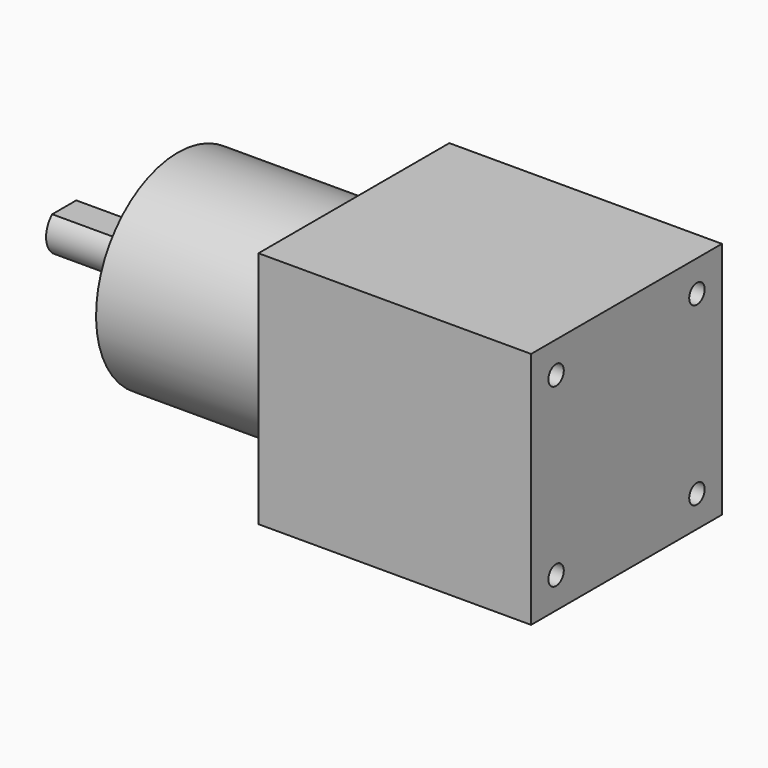
from build123d import *

# Parameters (mm, degrees)
F1_DEPTH        = 21
F0_W            = 18
F0_H            = 4
F6_DEPTH        = 15
F10_D           = 3.4
F10_DEPTH       = 5
F10_TIP         = 1.0214630523
F10_ON_F7_D     = 3.4
F10_ON_F7_DEPTH = 5
F10_ON_F7_TIP   = 1.0214630523
F10_ON_F8_D     = 3.4
F10_ON_F8_DEPTH = 5
F10_ON_F8_TIP   = 1.0214630523


with BuildPart() as f1:
    # F0 (on Front) → F1 (new body, symmetric)
    with BuildSketch(Plane.XZ):
        Polygon((48, 21), (0, 21), (0, 18), (0, 0), (48, 0), align=None)
        Polygon((48, -21), (48, 0), (0, 0), (0, -18), (0, -21), align=None)
    extrude(amount=F1_DEPTH, both=True)

    # F10 on F7
    with Locations(Plane(origin=(0, 0, 0), x_dir=(0, -1, 0), z_dir=(-1, 0, 0))):
        with Locations((-15.5, 15.5), (15.5, 15.5), (15.5, -15.5), (-15.5, -15.5)):
            Hole(F10_ON_F7_D / 2, depth=F10_ON_F7_DEPTH)
            with Locations((0, 0, -(F10_ON_F7_DEPTH + F10_ON_F7_TIP / 2))):  # 118° drill point
                Cone(0, F10_ON_F7_D / 2, F10_ON_F7_TIP, mode=Mode.SUBTRACT)

    # F10 on F8
    with Locations(Plane.YZ.offset(48)):
        with Locations((-15.5, 15.5), (15.5, 15.5), (15.5, -15.5), (-15.5, -15.5)):
            Hole(F10_ON_F8_D / 2, depth=F10_ON_F8_DEPTH)
            with Locations((0, 0, -(F10_ON_F8_DEPTH + F10_ON_F8_TIP / 2))):  # 118° drill point
                Cone(0, F10_ON_F8_D / 2, F10_ON_F8_TIP, mode=Mode.SUBTRACT)


with BuildPart() as f2:
    # F0 (on Front) → F2 (revolve)
    with BuildSketch(Plane.XZ):
        Polygon((0, 0), (0, 18), (-31, 18), (-31, 11), (-31, 0), align=None)
    revolve(axis=Axis((48.0015884456, 0, 0), (1, 0, 0)))

    # F10
    with Locations(Plane(origin=(-31, 0, 0), x_dir=(0, -1, 0), z_dir=(-1, 0, 0))):
        with Locations((-9.8994949366, 9.8994949366), (9.8994949366, 9.8994949366), (9.8994949366, -9.8994949366), (-9.8994949366, -9.8994949366)):
            Hole(F10_D / 2, depth=F10_DEPTH)
            with Locations((0, 0, -(F10_DEPTH + F10_TIP / 2))):  # 118° drill point
                Cone(0, F10_D / 2, F10_TIP, mode=Mode.SUBTRACT)


with BuildPart() as f3:
    # F0 (on Front) → F3 (revolve)
    with BuildSketch(Plane.XZ):
        Polygon((-33, 0), (-31, 0), (-31, 11), (-33, 11), (-33, 4), align=None)
    revolve(axis=Axis((48.0015884456, 0, 0), (1, 0, 0)))


with BuildPart() as f4:
    # F0 (on Front) → F4 (revolve)
    with BuildSketch(Plane.XZ):
        with Locations((-42, 2)):
            Rectangle(F0_W, F0_H)
    revolve(axis=Axis((48.0015884456, 0, 0), (1, 0, 0)))

    # F5 (on face) → F6 (cut)
    with BuildSketch(Plane(origin=(-51, 0, 0), x_dir=(0, -1, 0), z_dir=(-1, 0, 0))):
        with BuildLine():
            ThreePointArc((2.6457513111, 3), (0, 4), (-2.6457513111, 3))
            Line((-2.6457513111, 3), (2.6457513111, 3))
        make_face()
    extrude(amount=-F6_DEPTH, mode=Mode.SUBTRACT)


solid = Compound([f1.part, f2.part, f3.part, f4.part])
